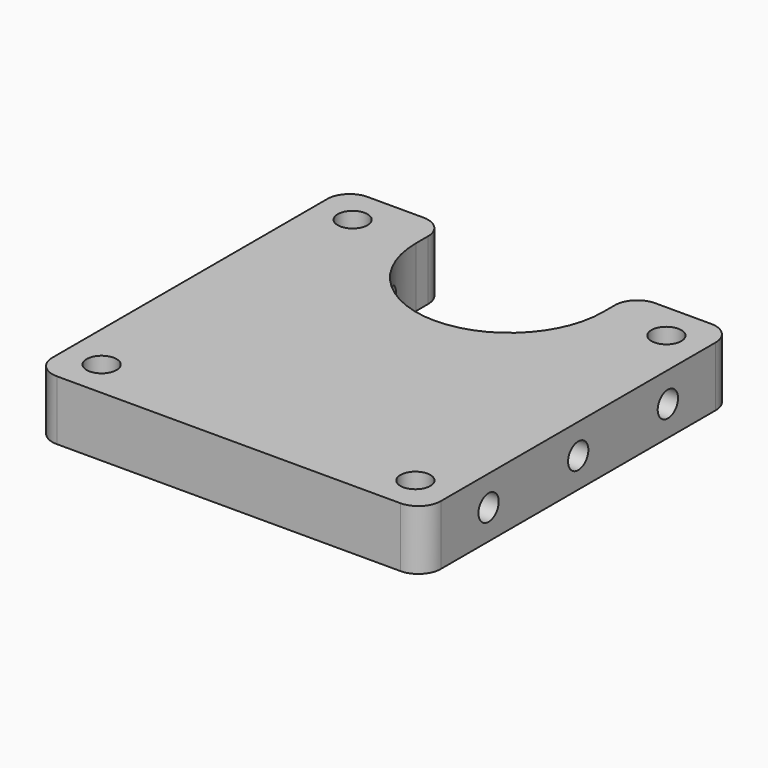
from build123d import *

# Parameters (mm, degrees)
F0_R          = 1
F1_DEPTH      = 2
F1_DEPTH_BACK = 2
F3_R          = 0.85
F4_DEPTH      = 26.001
F5_R          = 1.5


with BuildPart() as f1:
    # F0 (on Top) → F1 (new body, two sides)
    with BuildSketch(Plane.XY) as f1_sk:
        with BuildLine():
            ThreePointArc((6.25, 0), (0, -6.25), (-6.25, 0))
            Line((-6.25, 0), (-6.25, 2.5))
            Line((-6.25, 2.5), (-13, 2.5))
            Line((-13, 2.5), (-13, -23.5))
            Line((-13, -23.5), (13, -23.5))
            Line((13, -23.5), (13, 2.5))
            Line((13, 2.5), (6.25, 2.5))
            Line((6.25, 2.5), (6.25, 0))
        make_face()
        with Locations((-10.5, -21)):
            Circle(F0_R, mode=Mode.SUBTRACT)
        with Locations((10.5, -21)):
            Circle(F0_R, mode=Mode.SUBTRACT)
        with Locations((-10.5, 0)):
            Circle(F0_R, mode=Mode.SUBTRACT)
        with Locations((10.5, 0)):
            Circle(F0_R, mode=Mode.SUBTRACT)
    extrude(amount=F1_DEPTH)
    extrude(f1_sk.sketch, amount=-F1_DEPTH_BACK)

    # F3 (on face) → F4 (cut, through all)
    with BuildSketch(Plane.YZ.offset(13)):
        with Locations((-10.5, 0)):
            Circle(F3_R)
        with Locations((-3, 0)):
            Circle(F3_R)
        with Locations((-18, 0)):
            Circle(F3_R)
    extrude(amount=-F4_DEPTH, mode=Mode.SUBTRACT)

    # F5
    f5_edges = [f1.edges().sort_by_distance(p)[0] for p in [
        (-13, 2.5, 0),
        (13, 2.5, 0),
        (6.25, 2.5, 0),
        (-6.25, 2.5, 0),
        (-13, -23.5, 0),
        (13, -23.5, 0),
    ]]
    fillet(f5_edges, radius=F5_R)


solid = f1.part
